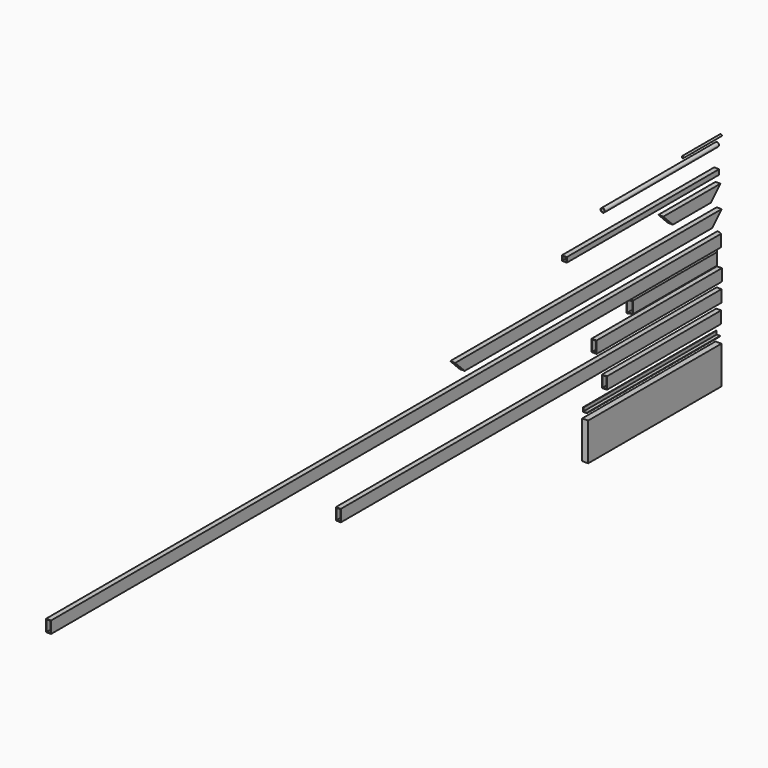
from build123d import *

# Parameters (mm, degrees)
F0_W      = 31.75
F0_H      = 76.2
F0_W_2    = 25.4
F0_H_2    = 69.85
F1_DEPTH  = 5377.5864
F2_DEPTH  = 718.4136
F3_DEPTH  = 1003.3
F4_DEPTH  = 3048
F6_DEPTH  = 76.2
F8_DEPTH  = 76.2
F9_DEPTH  = 1066.8
F0_W_3    = 38.1
F0_H_3    = 241.3
F10_DEPTH = 1066.8
F11_DEPTH = 2133.6
F13_DEPTH = 31.75
F14_DEPTH = 914.4
F15_DEPTH = 457.2
F17_DEPTH = 31.75
F0_H_4    = 31.75
F0_H_5    = 25.4
F18_DEPTH = 1219.2
F0_R      = 6.35
F0_R_2    = 4.7625
F19_DEPTH = 304.8
F0_R_3    = 13.335
F0_R_4    = 10.4648
F20_DEPTH = 914.4


with BuildPart() as f1:
    # F0 (on Front) → F1 (new body)
    with BuildSketch(Plane.XZ):
        with Locations((-69.473676, 61.539123)):
            Rectangle(F0_W, F0_H)
        with Locations((-69.473676, 61.539123)):
            Rectangle(F0_W_2, F0_H_2, mode=Mode.SUBTRACT)
    extrude(amount=F1_DEPTH)

    # F5 (on face) → F6 (cut)
    with BuildSketch(Plane.XY.offset(99.639123)):
        Polygon((-53.598676, 0), (-85.348676, 0), (-53.598676, -13.151281), align=None)
    extrude(amount=-F6_DEPTH, mode=Mode.SUBTRACT)


with BuildPart() as f2:
    # F0 (on Front) → F2 (new body)
    with BuildSketch(Plane.XZ):
        with Locations((-79.623617, -37.023183)):
            Rectangle(F0_W, F0_H)
        with Locations((-79.623617, -37.023183)):
            Rectangle(F0_W_2, F0_H_2, mode=Mode.SUBTRACT)
    extrude(amount=F2_DEPTH)

    # F7 (on face) → F8 (cut)
    with BuildSketch(Plane.XY.offset(1.076817)):
        Polygon((-63.748617, 0), (-95.498617, 0), (-63.748617, -31.75), align=None)
        Polygon((-63.748617, -705.262319), (-95.498617, -718.4136), (-63.748617, -718.4136), align=None)
    extrude(amount=-F8_DEPTH, mode=Mode.SUBTRACT)


with BuildPart() as f3:
    # F0 (on Front) → F3 (new body)
    with BuildSketch(Plane.XZ):
        with Locations((-74.672617, -139.33751)):
            Rectangle(F0_W, F0_H)
        with Locations((-74.672617, -139.33751)):
            Rectangle(F0_W_2, F0_H_2, mode=Mode.SUBTRACT)
    extrude(amount=F3_DEPTH)


with BuildPart() as f4:
    # F0 (on Front) → F4 (new body)
    with BuildSketch(Plane.XZ):
        with Locations((-76.986946, -258.456767)):
            Rectangle(F0_W, F0_H)
        with Locations((-76.986946, -258.456767)):
            Rectangle(F0_W_2, F0_H_2, mode=Mode.SUBTRACT)
    extrude(amount=F4_DEPTH)


with BuildPart() as f9:
    # F0 (on Front) → F9 (new body)
    with BuildSketch(Plane.XZ):
        Polygon((-92.18659, -464.315517), (-95.36159, -464.315517), (-95.36159, -489.715517), (-69.96159, -489.715517), (-69.96159, -486.540517), (-92.18659, -486.540517), align=None)
    extrude(amount=F9_DEPTH)


with BuildPart() as f10:
    # F0 (on Front) → F10 (new body, through all)
    with BuildSketch(Plane.XZ):
        with Locations((-81.049735, -648.787522)):
            Rectangle(F0_W_3, F0_H_3)
    extrude(amount=F10_DEPTH)


with BuildPart() as f11:
    # F0 (on Front) → F11 (new body)
    with BuildSketch(Plane.XZ):
        with Locations((-76.360703, 193.013325)):
            Rectangle(F0_W, F0_H)
        with Locations((-76.360703, 193.013325)):
            Rectangle(F0_W_2, F0_H_2, mode=Mode.SUBTRACT)
    extrude(amount=F11_DEPTH)

    # F12 (on face) → F13 (cut)
    with BuildSketch(Plane.YZ.offset(-60.485703)):
        Polygon((0, 154.913325), (0, 231.113325), (-76.2, 154.913325), align=None)
        Polygon((-2057.4, 154.913325), (-2133.6, 231.113325), (-2133.6, 154.913325), align=None)
    extrude(amount=-F13_DEPTH, mode=Mode.SUBTRACT)


with BuildPart() as f14:
    # F0 (on Front) → F14 (new body)
    with BuildSketch(Plane.XZ):
        with Locations((-79.450257, -379.158974)):
            Rectangle(F0_W, F0_H)
        with Locations((-79.450257, -379.158974)):
            Rectangle(F0_W_2, F0_H_2, mode=Mode.SUBTRACT)
    extrude(amount=F14_DEPTH)


with BuildPart() as f15:
    # F0 (on Front) → F15 (new body)
    with BuildSketch(Plane.XZ):
        with Locations((-84.152453, 333.741009)):
            Rectangle(F0_W, F0_H)
        with Locations((-84.152453, 333.741009)):
            Rectangle(F0_W_2, F0_H_2, mode=Mode.SUBTRACT)
    extrude(amount=F15_DEPTH)

    # F16 (on face) → F17 (cut)
    with BuildSketch(Plane.YZ.offset(-68.277453)):
        Polygon((-381, 295.641009), (-457.2, 371.841009), (-457.2, 295.641009), align=None)
        Polygon((0, 295.641009), (0, 371.841009), (-76.2, 295.641009), align=None)
    extrude(amount=-F17_DEPTH, mode=Mode.SUBTRACT)


with BuildPart() as f18:
    # F0 (on Front) → F18 (new body)
    with BuildSketch(Plane.XZ):
        with Locations((-92.367586, 435.225058)):
            Rectangle(F0_W, F0_H_4)
        with Locations((-92.367586, 435.225058)):
            Rectangle(F0_W_2, F0_H_5, mode=Mode.SUBTRACT)
    extrude(amount=F18_DEPTH)


with BuildPart() as f19:
    # F0 (on Front) → F19 (new body)
    with BuildSketch(Plane.XZ):
        with Locations((-65.874446, 646.161556)):
            Circle(F0_R)
        with Locations((-65.874446, 646.161556)):
            Circle(F0_R_2, mode=Mode.SUBTRACT)
    extrude(amount=F19_DEPTH)


with BuildPart() as f20:
    # F0 (on Front) → F20 (new body)
    with BuildSketch(Plane.XZ):
        with Locations((-91.05286, 585.70075)):
            Circle(F0_R_3)
        with Locations((-91.05286, 585.70075)):
            Circle(F0_R_4, mode=Mode.SUBTRACT)
    extrude(amount=F20_DEPTH)


solid = Compound([f1.part, f2.part, f3.part, f4.part, f9.part, f10.part, f11.part, f14.part, f15.part, f18.part, f19.part, f20.part])
